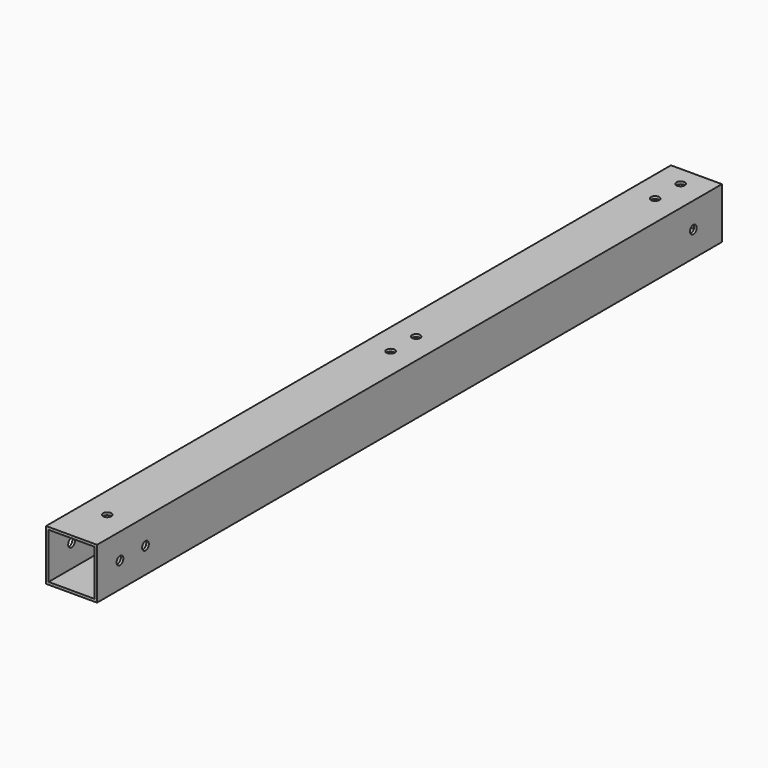
from build123d import *

# Parameters (mm, degrees)
SKETCH_W      = 40
SKETCH_H      = 40
SKETCH_W_2    = 36
SKETCH_H_2    = 36
PAD_DEPTH     = 613
SKETCH001_R   = 3.3
HOLE_DEPTH    = 40.001
SKETCH002_R   = 3.3
HOLE001_DEPTH = 40.001


with BuildPart() as part:
    # Sketch → Pad (new body)
    with BuildSketch(Plane.XZ):
        Rectangle(SKETCH_W, SKETCH_H)
        Rectangle(SKETCH_W_2, SKETCH_H_2, mode=Mode.SUBTRACT)
    extrude(amount=PAD_DEPTH)

    # Sketch001 → Hole (cut, through all)
    with BuildSketch(Plane(origin=(20, 0, 0), x_dir=(0, 0, 1), z_dir=(1, 0, 0))):
        with Locations((0, 28)):
            Circle(SKETCH001_R)
        with Locations((0, 565.5)):
            Circle(SKETCH001_R)
        with Locations((0, 590.5)):
            Circle(SKETCH001_R)
    extrude(amount=-HOLE_DEPTH, mode=Mode.SUBTRACT)

    # Sketch002 → Hole001 (cut, through all)
    with BuildSketch(Plane(origin=(0, 0, 20), x_dir=(-1, 0, 0), z_dir=(0, 0, 1))):
        with Locations((0, 15.5)):
            Circle(SKETCH002_R)
        with Locations((0, 300)):
            Circle(SKETCH002_R)
        with Locations((0, 275)):
            Circle(SKETCH002_R)
        with Locations((0, 578)):
            Circle(SKETCH002_R)
        with Locations((0, 40.5)):
            Circle(SKETCH002_R)
    extrude(amount=-HOLE001_DEPTH, mode=Mode.SUBTRACT)


solid = part.part
